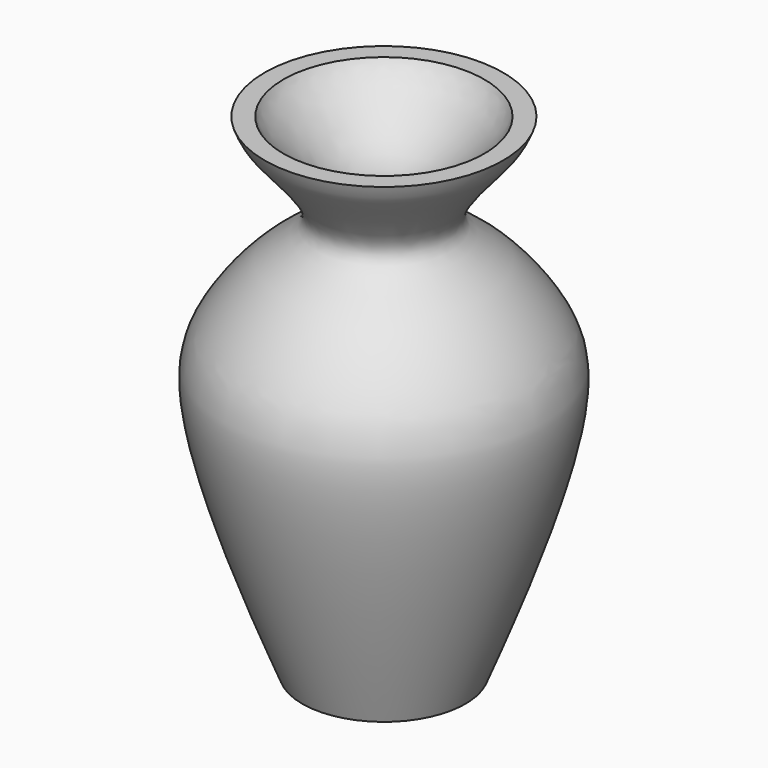
from build123d import *

# Parameters (mm, degrees)
F2_T = -2.54


with BuildPart() as f1:
    # F0 (on Front) → F1 (revolve)
    with BuildSketch(Plane.XZ):
        with BuildLine():
            Line((-12.0193781331, 0), (0, 0))
            Line((0, 0), (0, 72.1977129579))
            Line((0, 72.1977129579), (-17.5460670143, 72.1977129579))
            add(Edge.make_bspline(
                [(-12.0193781331, 0), (-17.5990253763, 13.7415045688), (-25.5403166038, 35.8955349105), (-21.949029927, 46.1848312794), (-14.6417213827, 54.7853945408), (-6.20130497, 59.2220873134), (-16.2145488656, 68.7783427226), (-17.1915415468, 71.2869387531), (-17.5460670143, 72.1977129579)],
                knots=[0, 0, 0, 0, 0.3019927707, 0.4533702261, 0.6159585385, 0.7429801533, 0.9056912339, 1, 1, 1, 1], degree=3))
        make_face()
    revolve(axis=Axis((0, 0, 36.0988564789), (0, 0, -1)))

    # F2
    f2_openings = [f1.faces().sort_by_distance(p)[0] for p in [
        (0, 0, 72.197713),
    ]]
    offset(amount=F2_T, openings=f2_openings)


solid = f1.part
